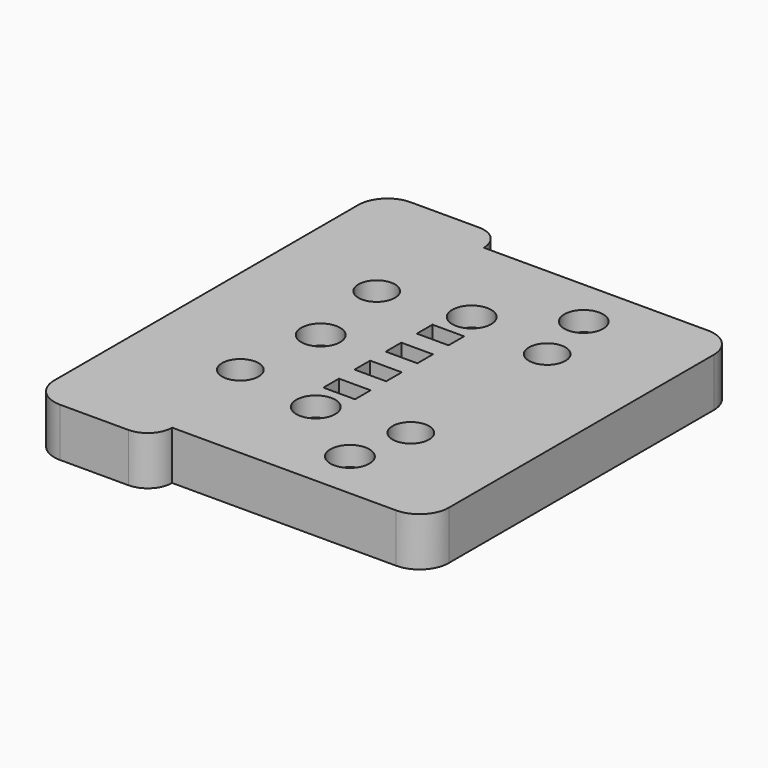
from build123d import *

# Parameters (mm, degrees)
SKETCH_R     = 1.6
SKETCH_R_2   = 2.1
SKETCH_R_3   = 3.75
SKETCH_W     = 6.5
SKETCH_H     = 4
PAD_DEPTH    = 10
SKETCH001_R  = 4
POCKET_DEPTH = 4
FILLET_R     = 6
FILLET001_R  = 4.99


with BuildPart() as part:
    # Sketch → Pad (new body)
    with BuildSketch(Plane.XY):
        Polygon((-38.5, 40), (-38.5, -40), (-38.5, -45), (-13.5, -45), (-13.5, -40), (38.5, -40), (38.5, 40), (-13.5, 40), (-13.5, 45), (-38.5, 45), align=None)
        with Locations((-15, 0)):
            Circle(SKETCH_R, mode=Mode.SUBTRACT)
        with Locations((15, -30)):
            Circle(SKETCH_R, mode=Mode.SUBTRACT)
        with Locations((0, 20)):
            Circle(SKETCH_R_2, mode=Mode.SUBTRACT)
        with Locations((0, -20)):
            Circle(SKETCH_R_2, mode=Mode.SUBTRACT)
        with Locations((15, 30)):
            Circle(SKETCH_R, mode=Mode.SUBTRACT)
        with Locations((-17.5, 17.5)):
            Circle(SKETCH_R_3, mode=Mode.SUBTRACT)
        with Locations((-17.5, -17.5)):
            Circle(SKETCH_R_3, mode=Mode.SUBTRACT)
        with Locations((17.5, -17.5)):
            Circle(SKETCH_R_3, mode=Mode.SUBTRACT)
        with Locations((17.5, 17.5)):
            Circle(SKETCH_R_3, mode=Mode.SUBTRACT)
        with Locations((0, 4)):
            Rectangle(SKETCH_W, SKETCH_H, mode=Mode.SUBTRACT)
        with Locations((0, -4)):
            Rectangle(SKETCH_W, SKETCH_H, mode=Mode.SUBTRACT)
        with Locations((0, 12)):
            Rectangle(SKETCH_W, SKETCH_H, mode=Mode.SUBTRACT)
        with Locations((0, -12)):
            Rectangle(SKETCH_W, SKETCH_H, mode=Mode.SUBTRACT)
    extrude(amount=PAD_DEPTH)

    # Sketch001 (on Face34 of Pad) → Pocket (cut)
    with BuildSketch(Plane.XY.offset(10)):
        with Locations((-15, 0)):
            Circle(SKETCH001_R)
        with Locations((15, -30)):
            Circle(SKETCH001_R)
        with Locations((15, 30)):
            Circle(SKETCH001_R)
        with Locations((0, 20)):
            Circle(SKETCH001_R)
        with Locations((0, -20)):
            Circle(SKETCH001_R)
    extrude(amount=-POCKET_DEPTH, mode=Mode.SUBTRACT)

    # Fillet
    fillet_edges = [part.edges().sort_by_distance(p)[0] for p in [
        (-38.5, -45, 5),
        (38.5, -40, 5),
        (-38.5, 45, 5),
        (38.5, 40, 5),
    ]]
    fillet(fillet_edges, radius=FILLET_R)

    # Fillet001
    fillet001_edges = [part.edges().sort_by_distance(p)[0] for p in [
        (-13.5, 45, 5),
        (-13.5, -45, 5),
    ]]
    fillet(fillet001_edges, radius=FILLET001_R)


solid = part.part
